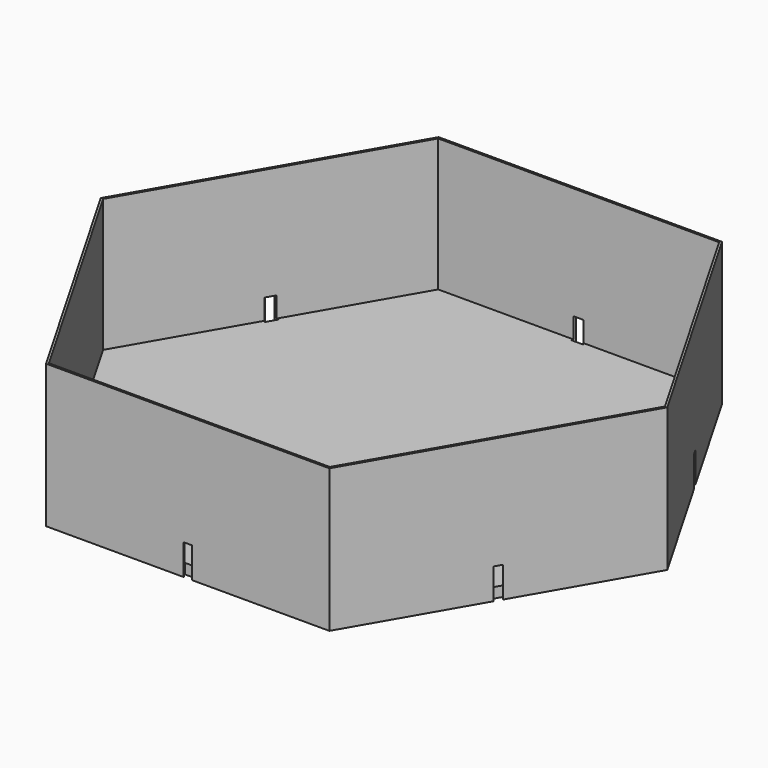
from build123d import *

# Parameters (mm, degrees)
F1_DEPTH = 88.9
F3_DEPTH = 19.05
F5_DEPTH = 82.55


with BuildPart() as f1:
    # F0 (on Top) → F1 (new body)
    with BuildSketch(Plane.XY):
        Polygon((-87.988181, -152.4), (87.988181, -152.4), (175.976362, 0), (87.988181, 152.4), (-87.988181, 152.4), (-175.976362, 0), align=None)
    extrude(amount=F1_DEPTH)

    # F2 (on face) → F3 (cut)
    with BuildSketch(Plane(origin=(0, 0, 0), x_dir=(1, 0, 0), z_dir=(0, 0, -1))):
        Polygon((-131.982272, -76.2), (-129.782567, -74.93), (-131.687567, -71.630443), (-133.252272, -74.000295), align=None)
        Polygon((-127.877567, -78.229557), (-129.782567, -74.93), (-131.982272, -76.2), (-130.712272, -78.399705), align=None)
        Polygon((-131.687567, 71.630443), (-129.782567, 74.93), (-131.982272, 76.2), (-133.252272, 74.000295), align=None)
        Polygon((-131.982272, 76.2), (-129.782567, 74.93), (-127.877567, 78.229557), (-130.712272, 78.399705), align=None)
        Polygon((0, 149.86), (0, 152.4), (-2.54, 152.4), (-3.81, 149.86), align=None)
        Polygon((2.54, 152.4), (0, 152.4), (0, 149.86), (3.81, 149.86), align=None)
        Polygon((127.877567, 78.229557), (129.782567, 74.93), (131.982272, 76.2), (130.712272, 78.399705), align=None)
        Polygon((131.982272, 76.2), (129.782567, 74.93), (131.687567, 71.630443), (133.252272, 74.000295), align=None)
        Polygon((131.687567, -71.630443), (129.782567, -74.93), (131.982272, -76.2), (133.252272, -74.000295), align=None)
        Polygon((131.982272, -76.2), (129.782567, -74.93), (127.877567, -78.229557), (130.712272, -78.399705), align=None)
        Polygon((3.81, -149.86), (0, -149.86), (0, -152.4), (2.54, -152.4), align=None)
        Polygon((0, -152.4), (0, -149.86), (-3.81, -149.86), (-2.54, -152.4), align=None)
    extrude(amount=-F3_DEPTH, mode=Mode.SUBTRACT)

    # F4 (on face) → F5 (cut)
    with BuildSketch(Plane.XY.offset(88.9)):
        Polygon((-87.254946, -151.13), (87.254946, -151.13), (174.509892, 0), (87.254946, 151.13), (-87.254946, 151.13), (-174.509892, 0), align=None)
    extrude(amount=-F5_DEPTH, mode=Mode.SUBTRACT)


solid = f1.part
